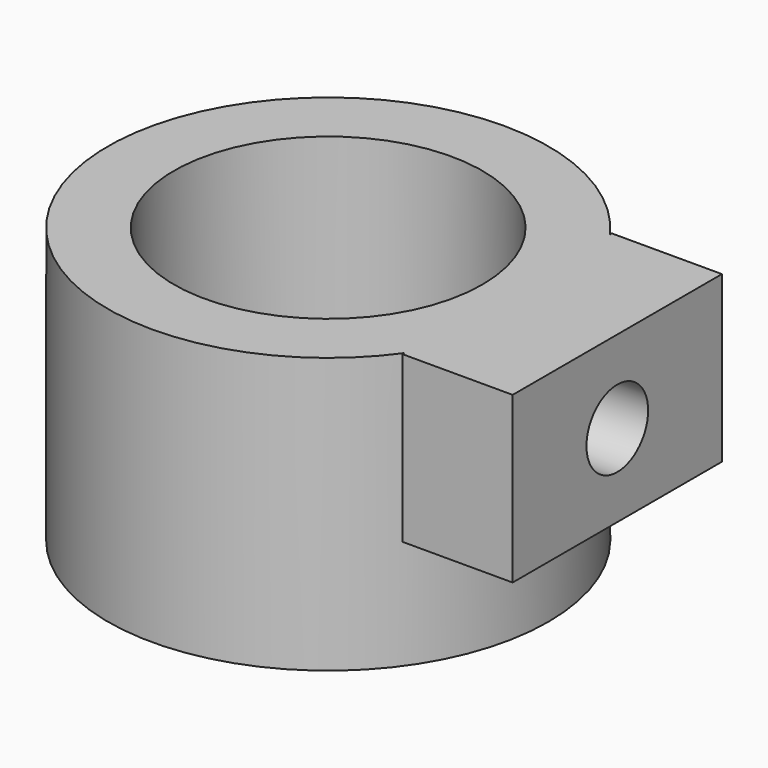
from build123d import *

# Parameters (mm, degrees)
SKETCH_R        = 16
PAD_DEPTH       = 20
SKETCH001_R     = 11.2
POCKET_DEPTH    = 20.001
SKETCH002_W     = 8
SKETCH002_H     = 19
PAD001_DEPTH    = 12
POCKET001_DEPTH = 3
SKETCH008_R     = 2.8
POCKET002_DEPTH = 15


with BuildPart() as part:
    # Sketch → Pad (new body)
    with BuildSketch(Plane.XY):
        Circle(SKETCH_R)
    extrude(amount=PAD_DEPTH)

    # Sketch001 → Pocket (cut, through all)
    with BuildSketch(Plane.XY.offset(20)):
        Circle(SKETCH001_R)
    extrude(amount=-POCKET_DEPTH, mode=Mode.SUBTRACT)

    # Sketch002 → Pad001 (new body)
    with BuildSketch(Plane.XY.offset(20)):
        with Locations((17, 0)):
            Rectangle(SKETCH002_W, SKETCH002_H)
    extrude(amount=-PAD001_DEPTH)

    # Sketch005 → Pocket001 (cut, symmetric)
    with BuildSketch(Plane(origin=(13, 0, 0), x_dir=(0, -1, 0), z_dir=(-1, 0, 0))):
        Polygon((0, 9.207993), (4.15, 11.603996), (4.15, 16.396004), (0, 18.792007), (-4.15, 16.396004), (-4.15, 11.603996), align=None)
    extrude(amount=POCKET001_DEPTH, both=True, mode=Mode.SUBTRACT)

    # Sketch008 → Pocket002 (cut)
    with BuildSketch(Plane.YZ.offset(21)):
        with Locations((0, 14)):
            Circle(SKETCH008_R)
    extrude(amount=-POCKET002_DEPTH, mode=Mode.SUBTRACT)


solid = part.part
